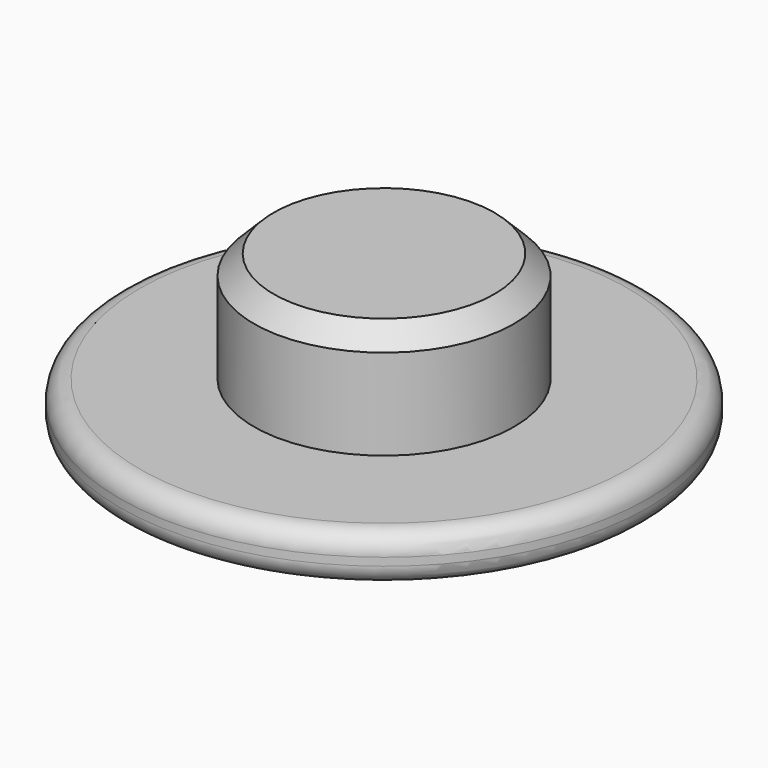
from build123d import *

# Parameters (mm, degrees)
F0_R     = 8.509
F1_DEPTH = 1.524
F2_R     = 4.191
F3_DEPTH = 3.556
F4_R     = 0.635
F5_SIZE  = 0.635


with BuildPart() as f1:
    # F0 (on Top) → F1 (new body)
    with BuildSketch(Plane.XY):
        Circle(F0_R)
    extrude(amount=F1_DEPTH)

    # F2 (on face) → F3 (join)
    with BuildSketch(Plane.XY.offset(1.524)):
        Circle(F2_R)
    extrude(amount=F3_DEPTH)

    # F4
    f4_edges = [f1.edges().sort_by_distance(p)[0] for p in [
        (-8.509, 0, 1.524),
        (8.509, 0, 0.762),
        (-8.509, 0, 0),
    ]]
    fillet(f4_edges, radius=F4_R)

    # F5
    f5_edges = [f1.edges().sort_by_distance(p)[0] for p in [
        (-4.191, 0, 5.08),
    ]]
    chamfer(f5_edges, length=F5_SIZE)

    # F6 (on Right) → F7 (revolve, cut)
    with BuildSketch(Plane.YZ):
        with BuildLine():
            Line((0, 0), (0, 1.905))
            ThreePointArc((0, 1.905), (-2.933456, 1.510415), (-5.658379, 0.354708))
            ThreePointArc((-5.658379, 0.354708), (-6.281844, 0.090282), (-6.953022, 0))
            Line((-6.953022, 0), (0, 0))
        make_face()
    revolve(axis=Axis((0, 0, 0.9525), (0, 0, 1)), mode=Mode.SUBTRACT)


solid = f1.part
